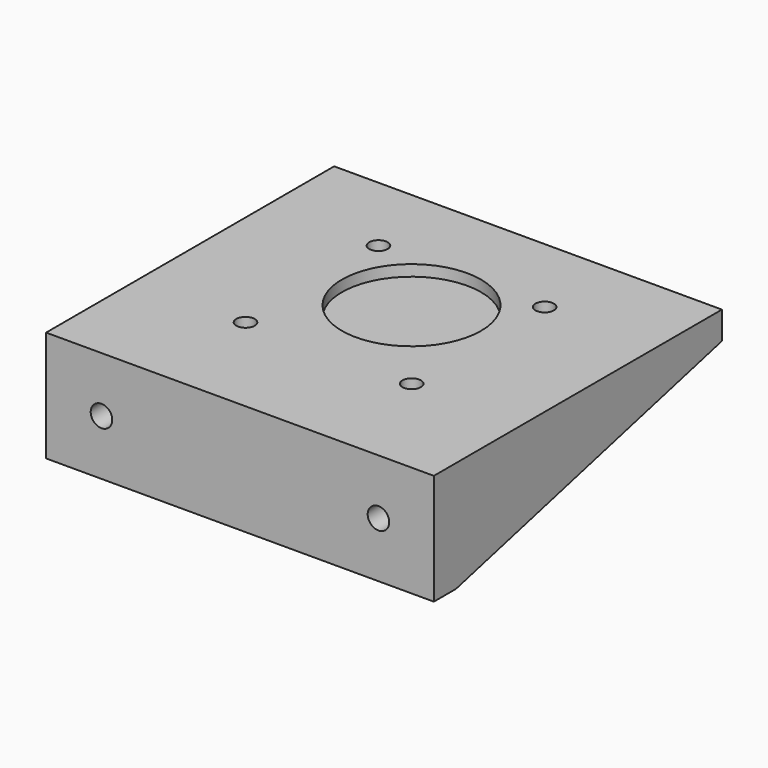
from build123d import *

# Parameters (mm, degrees)
F0_W      = 60
F0_H      = 60
F0_R      = 1.665
F1_DEPTH  = 5
F2_W      = 60
F2_H      = 20
F3_DEPTH  = 5
F5_DEPTH  = 5
F7_R      = 1.945
F8_DEPTH  = 5
F9_R      = 12.55
F10_DEPTH = 2


with BuildPart() as f1:
    # F0 (on Top) → F1 (new body)
    with BuildSketch(Plane.XY):
        Rectangle(F0_W, F0_H)
        with Locations((-15, -15)):
            Circle(F0_R, mode=Mode.SUBTRACT)
        with Locations((15, -15)):
            Circle(F0_R, mode=Mode.SUBTRACT)
        with Locations((-15, 15)):
            Circle(F0_R, mode=Mode.SUBTRACT)
        with Locations((15, 15)):
            Circle(F0_R, mode=Mode.SUBTRACT)
    extrude(amount=F1_DEPTH)

    # F2 (on face) → F3 (join)
    with BuildSketch(Plane.XZ.offset(30)):
        with Locations((0, -5)):
            Rectangle(F2_W, F2_H)
    extrude(amount=F3_DEPTH)

    # F4 (on face) → F5 (join)
    with BuildSketch(Plane.YZ.offset(30)):
        Polygon((-30, -15), (30, 0), (30, 5), (-35, 5), (-35, -15), align=None)
    extrude(amount=F5_DEPTH)

    # F6: F1 across plane


with BuildPart() as f1_1:
    add(f1.part)
    add(f1.part.mirror(Plane.YZ))

    # F7 (on face) → F8 (cut, through all)
    with BuildSketch(Plane.XZ.offset(35)):
        with Locations((-25, -5)):
            Circle(F7_R)
        with Locations((25, -5)):
            Circle(F7_R)
    extrude(amount=-F8_DEPTH, mode=Mode.SUBTRACT)

    # F9 (on face) → F10 (cut)
    with BuildSketch(Plane.XY.offset(5)):
        with Locations((0, 3.7)):
            Circle(F9_R)
    extrude(amount=-F10_DEPTH, mode=Mode.SUBTRACT)


solid = f1_1.part
